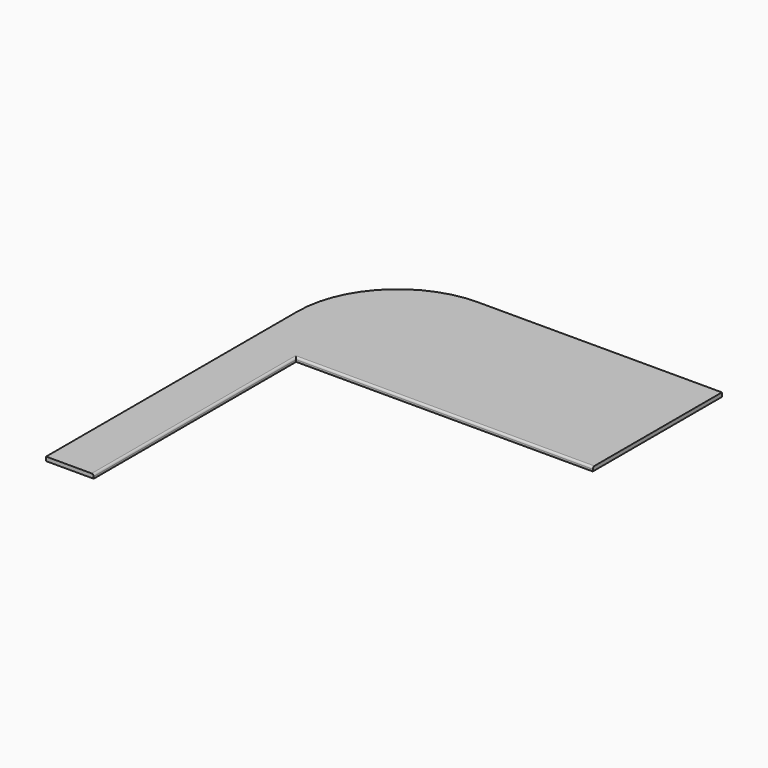
from build123d import *

# Parameters (mm, degrees)
F1_DEPTH = 10
F2_R     = 5


with BuildPart() as f1:
    # F0 (on Top) → F1 (new body)
    with BuildSketch(Plane.XY):
        with BuildLine():
            ThreePointArc((0, 248), (-175.362482, 175.362482), (-248, 0))
            Line((-248, 0), (-248, -779))
            Line((-248, -779), (-130, -779))
            Line((-130, -779), (-130, -152))
            Line((-130, -152), (605, -152))
            Line((605, -152), (605, 248))
            Line((605, 248), (0, 248))
        make_face()
    extrude(amount=F1_DEPTH)

    # F2
    f2_edges = [f1.edges().sort_by_distance(p)[0] for p in [
        (237.5, -152, 10),
        (-130, -465.5, 10),
    ]]
    fillet(f2_edges, radius=F2_R)


solid = f1.part
